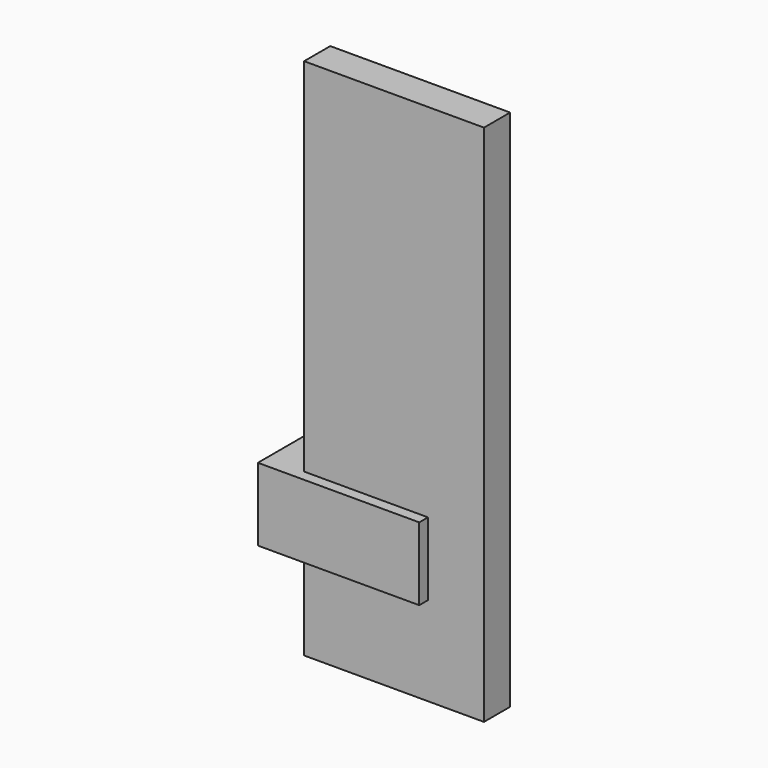
from build123d import *

# Parameters (mm, degrees)
F0_W     = 838.2
F0_H     = 2438.4
F1_DEPTH = 152.4
F2_W     = 752.025268
F2_H     = 339.915395
F3_DEPTH = 50.8
F4_W     = 174.812899
F4_H     = 339.915395
F5_DEPTH = 254


with BuildPart() as f1:
    # F0 (on Front) → F1 (new body)
    with BuildSketch(Plane.XZ):
        Rectangle(F0_W, F0_H)
    extrude(amount=F1_DEPTH)

    # F2 (on face) → F3 (join)
    with BuildSketch(Plane.XZ.offset(152.4)):
        with Locations((-217.900265, -634.607195)):
            Rectangle(F2_W, F2_H)
    extrude(amount=F3_DEPTH)

    # F4 (on face) → F5 (join)
    with BuildSketch(Plane(origin=(0, -152.4, 0), x_dir=(-1, 0, 0), z_dir=(0, 1, 0))):
        with Locations((506.506449, -634.607195)):
            Rectangle(F4_W, F4_H)
    extrude(amount=F5_DEPTH)


solid = f1.part
